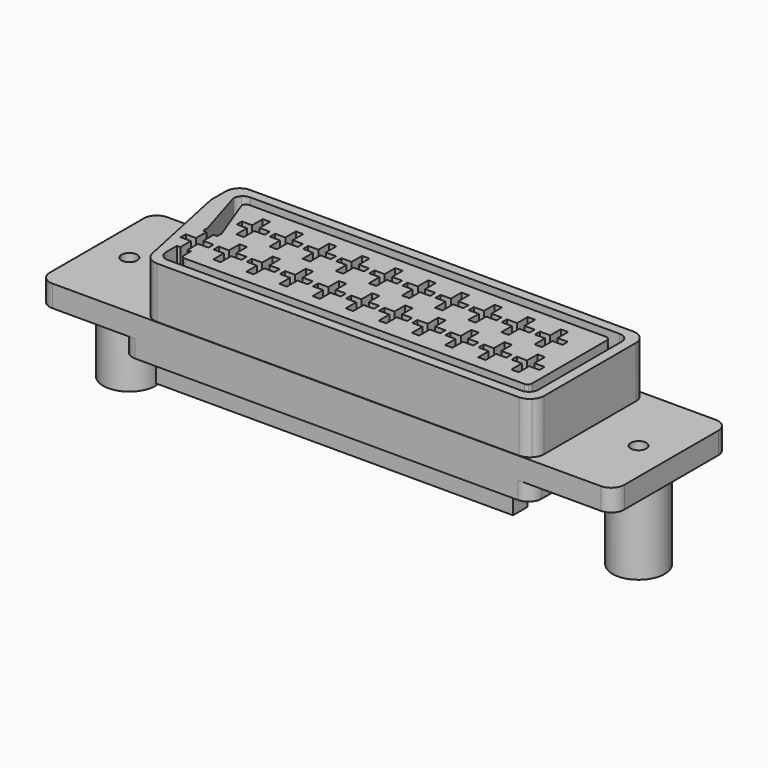
from build123d import *

# Parameters (mm, degrees)
BOX_W                  = 66
BOX_H                  = 16.5
BOX_DEPTH              = 2.5
BOX001_W               = 47
BOX001_H               = 16.5
BOX001_DEPTH           = 2
CYLINDER_R             = 3
CYLINDER_DEPTH         = 9.5
CYLINDER001_R          = 3
CYLINDER001_DEPTH      = 9.5
CYLINDER002_R          = 0.9
CYLINDER002_DEPTH      = 12
CYLINDER003_R          = 0.9
CYLINDER003_DEPTH      = 12
PAD_DEPTH              = 5.9
PAD001_DEPTH           = 5.9
BOX005_W               = 41
BOX005_H               = 14.2
BOX005_DEPTH           = 2.5
BOX006_W               = 41
BOX006_H               = 10
BOX006_DEPTH           = 2.5
FILLET_R               = 1.5
FILLET001_R            = 1
BOX015_W               = 2.9
BOX015_H               = 0.5
BOX015_DEPTH           = 12.9
LINEARPATTERN_COUNT    = 11
LINEARPATTERN_PITCH    = 3.8
BOX016_W               = 2.9
BOX016_H               = 0.5
BOX016_DEPTH           = 14.4
LINEARPATTERN001_COUNT = 10
LINEARPATTERN001_PITCH = 3.811111


with BuildPart() as part:
    # Box → Box (join)
    with BuildSketch(Plane(origin=(-33, -8.25, -2.5), x_dir=(1, 0, 0), z_dir=(0, 0, 1))):
        with Locations((33, 8.25)):
            Rectangle(BOX_W, BOX_H)
    extrude(amount=BOX_DEPTH)

    # Box001 → Box001 (join)
    with BuildSketch(Plane(origin=(-23.5, -8.25, -4.5), x_dir=(1, 0, 0), z_dir=(0, 0, 1))):
        with Locations((23.5, 8.25)):
            Rectangle(BOX001_W, BOX001_H)
    extrude(amount=BOX001_DEPTH)

    # Cylinder → Cylinder (join)
    with BuildSketch(Plane(origin=(-29.25, 0, -12), x_dir=(1, 0, 0), z_dir=(0, 0, 1))):
        Circle(CYLINDER_R)
    extrude(amount=CYLINDER_DEPTH)

    # Cylinder001 → Cylinder001 (join)
    with BuildSketch(Plane(origin=(29.25, 0, -12), x_dir=(1, 0, 0), z_dir=(0, 0, 1))):
        Circle(CYLINDER001_R)
    extrude(amount=CYLINDER001_DEPTH)

    # Cylinder002 → Cylinder002 (cut)
    with BuildSketch(Plane(origin=(-29.25, 0, -12), x_dir=(1, 0, 0), z_dir=(0, 0, 1))):
        Circle(CYLINDER002_R)
    extrude(amount=CYLINDER002_DEPTH, mode=Mode.SUBTRACT)

    # Cylinder003 → Cylinder003 (cut)
    with BuildSketch(Plane(origin=(29.25, 0, -12), x_dir=(1, 0, 0), z_dir=(0, 0, 1))):
        Circle(CYLINDER003_R)
    extrude(amount=CYLINDER003_DEPTH, mode=Mode.SUBTRACT)

    with BuildSketch(Plane(origin=(-33, 8.25, 0), x_dir=(1, 0, 0), z_dir=(0, 0, 1))):
        with BuildLine():
            Line((13.479586, -16.450182), (55.041756, -16.450182))
            ThreePointArc((55.041756, -16.450182), (55.66171, -16.327701), (56.188108, -15.978059))
            ThreePointArc((56.188108, -15.978059), (56.540317, -15.454065), (56.664303, -14.834995))
            Line((56.664303, -1.665005), (56.664303, -14.834995))
            ThreePointArc((56.664303, -1.665005), (56.194211, -0.532194), (55.060177, -0.065061))
            ThreePointArc((55.060177, -0.065061), (53.456051, -0.067805), (51.851922, -0.067661))
            ThreePointArc((51.851922, -0.067661), (46.837336, -0.060687), (41.822749, -0.056031))
            ThreePointArc((41.822749, -0.056031), (36.808159, -0.052729), (31.79357, -0.049817))
            ThreePointArc((31.79357, -0.049817), (26.555554, -0.05468), (21.317537, -0.056774))
            ThreePointArc((21.317537, -0.056774), (16.079532, -0.063149), (10.841552, -0.080853))
            ThreePointArc((10.841552, -0.080853), (10.320277, -0.273442), (9.896889, -0.633388))
            ThreePointArc((9.896889, -0.633388), (9.623966, -1.116883), (9.535548, -1.665005))
            Line((9.535548, -1.665005), (9.535548, -3.777173))
            Line((9.535548, -3.777173), (11.890879, -15.003742))
            Line((11.906298, -15.061702), (11.890879, -15.003742))
            Line((11.931925, -15.158032), (11.906298, -15.061702))
            ThreePointArc((11.931925, -15.158032), (12.123949, -15.665468), (12.475573, -16.078656))
            ThreePointArc((12.475573, -16.078656), (12.945725, -16.350503), (13.479586, -16.450182))
        make_face()
        with BuildLine():
            Line((13.125121, -12.663189), (13.125121, -11.147398))
            Line((11.951895, -11.147398), (13.125121, -11.147398))
            Line((11.951895, -11.147398), (11.951895, -10.401927))
            Line((11.951895, -10.401927), (13.125121, -10.401927))
            Line((13.125121, -10.401927), (13.125121, -8.886135))
            Line((12.730718, -8.886135), (13.125121, -8.886135))
            Line((12.730718, -8.886135), (12.730718, -8.25))
            Line((12.730718, -8.25), (10.914713, -2.286231))
            ThreePointArc((11.229931, -1.505624), (10.992087, -1.863528), (10.914713, -2.286231))
            ThreePointArc((12.013053, -1.192873), (11.589666, -1.269557), (11.229931, -1.505624))
            Line((12.013053, -1.192873), (54.417699, -1.192873))
            ThreePointArc((55.200843, -1.505647), (54.841092, -1.269583), (54.417699, -1.192873))
            ThreePointArc((55.516039, -2.286231), (55.438689, -1.863535), (55.200843, -1.505647))
            Line((55.516039, -2.286231), (55.516039, -14.213769))
            ThreePointArc((55.200821, -14.994375), (55.438665, -14.636472), (55.516039, -14.213769))
            ThreePointArc((54.417699, -15.307127), (54.841086, -15.230442), (55.200821, -14.994375))
            Line((13.829057, -15.307127), (54.417699, -15.307127))
            ThreePointArc((13.045914, -14.994354), (13.405664, -15.230418), (13.829057, -15.307127))
            ThreePointArc((12.730718, -14.213769), (12.808068, -14.636465), (13.045914, -14.994354))
            Line((12.730718, -14.213769), (12.730718, -12.663189))
            Line((13.125121, -12.663189), (12.730718, -12.663189))
        make_face(mode=Mode.SUBTRACT)
    extrude(amount=PAD_DEPTH)

    with BuildSketch(Plane(origin=(-33, 8.25, 0), x_dir=(1, 0, 0), z_dir=(0, 0, 1))):
        with BuildLine():
            Line((14.378227, -13.636369), (14.378227, -12.682166))
            Line((14.378227, -12.682166), (13.973838, -12.682166))
            Line((13.973838, -12.682166), (13.973838, -11.166375))
            Line((13.973838, -11.166375), (15.147065, -11.166375))
            Line((15.147065, -11.166375), (15.147065, -10.420904))
            Line((13.973838, -10.420904), (15.147065, -10.420904))
            Line((13.973838, -10.420904), (13.973838, -8.905112))
            Line((14.378227, -8.905112), (13.973838, -8.905112))
            Line((14.378227, -8.905112), (14.378227, -8.268976))
            Line((14.378227, -8.268976), (12.368765, -2.901584))
            ThreePointArc((12.515087, -2.54969), (12.406731, -2.711002), (12.368765, -2.901584))
            ThreePointArc((12.86801, -2.404603), (12.677152, -2.442125), (12.515087, -2.54969))
            Line((14.378227, -2.404603), (12.86801, -2.404603))
            Line((14.378227, -2.404603), (53.818605, -2.404604))
            ThreePointArc((54.171634, -2.549793), (54.009494, -2.442246), (53.818605, -2.404604))
            ThreePointArc((54.31785, -2.901584), (54.280007, -2.711032), (54.171634, -2.549793))
            Line((54.31785, -2.901584), (54.31785, -13.636369))
            ThreePointArc((54.171528, -13.988264), (54.279885, -13.826951), (54.31785, -13.636369))
            ThreePointArc((53.818605, -14.13335), (54.009464, -14.095828), (54.171528, -13.988264))
            Line((14.877472, -14.13335), (53.818605, -14.13335))
            ThreePointArc((14.524444, -13.98816), (14.686583, -14.095707), (14.877472, -14.13335))
            ThreePointArc((14.378227, -13.636369), (14.416071, -13.826922), (14.524444, -13.98816))
        make_face()
        Polygon((47.363363, -10.420904), (47.363363, -8.905112), (48.21208, -8.905112), (48.21208, -10.420904), (49.385306, -10.420904), (49.385306, -11.166375), (48.21208, -11.166375), (48.21208, -12.682166), (47.363363, -12.682166), (47.363363, -11.166375), (46.190136, -11.166375), (46.190136, -10.420904), align=None, mode=Mode.SUBTRACT)
        Polygon((15.506521, -7.573203), (15.506521, -6.057412), (14.333295, -6.057412), (14.333295, -5.311941), (15.506521, -5.311941), (15.506521, -3.79615), (16.355238, -3.79615), (16.355238, -5.311941), (17.528466, -5.311941), (17.528466, -6.057412), (16.355238, -6.057412), (16.355238, -7.573203), align=None, mode=Mode.SUBTRACT)
        Polygon((45.940514, -5.311941), (45.940514, -3.79615), (46.789231, -3.79615), (46.789231, -5.311941), (47.962457, -5.311941), (47.962457, -6.057412), (46.789231, -6.057412), (46.789231, -7.573203), (45.940514, -7.573203), (45.940514, -6.057412), (44.767287, -6.057412), (44.767287, -5.311941), align=None, mode=Mode.SUBTRACT)
        Polygon((21.582337, -10.420904), (21.582337, -8.905112), (20.73362, -8.905112), (20.73362, -10.420904), (19.560394, -10.420904), (19.560394, -11.166375), (20.73362, -11.166375), (20.73362, -12.682166), (21.582337, -12.682166), (21.582337, -11.166375), (22.755564, -11.166375), (22.755564, -10.420904), align=None, mode=Mode.SUBTRACT)
        Polygon((32.146367, -10.420904), (32.146367, -8.905112), (32.995084, -8.905112), (32.995084, -10.420904), (34.16831, -10.420904), (34.16831, -11.166375), (32.995084, -11.166375), (32.995084, -12.682166), (32.146367, -12.682166), (32.146367, -11.166375), (30.973141, -11.166375), (30.973141, -10.420904), align=None, mode=Mode.SUBTRACT)
        Polygon((38.581639, -11.166375), (38.581639, -10.420904), (39.754865, -10.420904), (39.754865, -8.905112), (40.603582, -8.905112), (40.603582, -10.420904), (41.776808, -10.420904), (41.776808, -11.166375), (40.603582, -11.166375), (40.603582, -12.682166), (39.754865, -12.682166), (39.754865, -11.166375), align=None, mode=Mode.SUBTRACT)
        Polygon((24.537869, -12.682166), (24.537869, -11.166375), (23.364643, -11.166375), (23.364643, -10.420904), (24.537869, -10.420904), (24.537869, -8.905112), (25.386586, -8.905112), (25.386586, -10.420904), (26.559813, -10.420904), (26.559813, -11.166375), (25.386586, -11.166375), (25.386586, -12.682166), align=None, mode=Mode.SUBTRACT)
        Polygon((34.77739, -11.166375), (34.77739, -10.420904), (35.950616, -10.420904), (35.950616, -8.905112), (36.799333, -8.905112), (36.799333, -10.420904), (37.972559, -10.420904), (37.972559, -11.166375), (36.799333, -11.166375), (36.799333, -12.682166), (35.950616, -12.682166), (35.950616, -11.166375), align=None, mode=Mode.SUBTRACT)
        Polygon((30.723518, -5.311941), (30.723518, -3.79615), (31.572235, -3.79615), (31.572235, -5.311941), (32.745461, -5.311941), (32.745461, -6.057412), (31.572235, -6.057412), (31.572235, -7.573203), (30.723518, -7.573203), (30.723518, -6.057412), (29.550292, -6.057412), (29.550292, -5.311941), align=None, mode=Mode.SUBTRACT)
        Polygon((28.342118, -12.682166), (29.190835, -12.682166), (29.190835, -11.166375), (30.364061, -11.166375), (30.364061, -10.420904), (29.190835, -10.420904), (29.190835, -8.905112), (28.342118, -8.905112), (28.342118, -10.420904), (27.168892, -10.420904), (27.168892, -11.166375), (28.342118, -11.166375), align=None, mode=Mode.SUBTRACT)
        Polygon((23.11502, -7.573203), (23.963737, -7.573203), (23.963737, -6.057412), (25.136964, -6.057412), (25.136964, -5.311941), (23.963737, -5.311941), (23.963737, -3.79615), (23.11502, -3.79615), (23.11502, -5.311941), (21.941794, -5.311941), (21.941794, -6.057412), (23.11502, -6.057412), align=None, mode=Mode.SUBTRACT)
        Polygon((42.984982, -7.573203), (42.984982, -6.057412), (44.158208, -6.057412), (44.158208, -5.311941), (42.984982, -5.311941), (42.984982, -3.79615), (42.136265, -3.79615), (42.136265, -5.311941), (40.963038, -5.311941), (40.963038, -6.057412), (42.136265, -6.057412), (42.136265, -7.573203), align=None, mode=Mode.SUBTRACT)
        Polygon((18.137545, -6.057412), (18.137545, -5.311941), (19.310771, -5.311941), (19.310771, -3.79615), (20.159488, -3.79615), (20.159488, -5.311941), (21.332715, -5.311941), (21.332715, -6.057412), (20.159488, -6.057412), (20.159488, -7.573203), (19.310771, -7.573203), (19.310771, -6.057412), align=None, mode=Mode.SUBTRACT)
        Polygon((49.994386, -10.420904), (51.167613, -10.420904), (51.167613, -8.905112), (52.01633, -8.905112), (52.01633, -10.420904), (53.189556, -10.420904), (53.189556, -11.166375), (52.01633, -11.166375), (52.01633, -12.682166), (51.167613, -12.682166), (51.167613, -11.166375), (49.994386, -11.166375), align=None, mode=Mode.SUBTRACT)
        Polygon((42.385888, -11.166375), (42.385888, -10.420904), (43.559114, -10.420904), (43.559114, -8.905112), (44.407831, -8.905112), (44.407831, -10.420904), (45.581057, -10.420904), (45.581057, -11.166375), (44.407831, -11.166375), (44.407831, -12.682166), (43.559114, -12.682166), (43.559114, -11.166375), align=None, mode=Mode.SUBTRACT)
        Polygon((25.746043, -5.311941), (26.919269, -5.311941), (26.919269, -3.79615), (27.767986, -3.79615), (27.767986, -5.311941), (28.941212, -5.311941), (28.941212, -6.057412), (27.767986, -6.057412), (27.767986, -7.573203), (26.919269, -7.573203), (26.919269, -6.057412), (25.746043, -6.057412), align=None, mode=Mode.SUBTRACT)
        Polygon((17.778088, -12.682166), (17.778088, -11.166375), (18.951315, -11.166375), (18.951315, -10.420904), (17.778088, -10.420904), (17.778088, -8.905112), (16.929371, -8.905112), (16.929371, -10.420904), (15.756144, -10.420904), (15.756144, -11.166375), (16.929371, -11.166375), (16.929371, -12.682166), align=None, mode=Mode.SUBTRACT)
        Polygon((37.15879, -6.057412), (38.332016, -6.057412), (38.332016, -7.573203), (39.180733, -7.573203), (39.180733, -6.057412), (40.353959, -6.057412), (40.353959, -5.311941), (39.180733, -5.311941), (39.180733, -3.79615), (38.332016, -3.79615), (38.332016, -5.311941), (37.15879, -5.311941), align=None, mode=Mode.SUBTRACT)
        Polygon((49.744764, -5.311941), (49.744764, -3.79615), (50.593481, -3.79615), (50.593481, -5.311941), (51.766707, -5.311941), (51.766707, -6.057412), (50.593481, -6.057412), (50.593481, -7.573203), (49.744764, -7.573203), (49.744764, -6.057412), (48.571536, -6.057412), (48.571536, -5.311941), align=None, mode=Mode.SUBTRACT)
        Polygon((35.376484, -5.311941), (35.376484, -3.79615), (34.527767, -3.79615), (34.527767, -5.311941), (33.354541, -5.311941), (33.354541, -6.057412), (34.527767, -6.057412), (34.527767, -7.573203), (35.376484, -7.573203), (35.376484, -6.057412), (36.54971, -6.057412), (36.54971, -5.311941), align=None, mode=Mode.SUBTRACT)
    extrude(amount=PAD001_DEPTH)

    # Box005 → Box005 (join)
    with BuildSketch(Plane(origin=(-20.5, -7.1, -7), x_dir=(1, 0, 0), z_dir=(0, 0, 1))):
        with Locations((20.5, 7.1)):
            Rectangle(BOX005_W, BOX005_H)
    extrude(amount=BOX005_DEPTH)

    # Box006 → Box006 (cut)
    with BuildSketch(Plane(origin=(-20.5, -5, -7), x_dir=(1, 0, 0), z_dir=(0, 0, 1))):
        with Locations((20.5, 5)):
            Rectangle(BOX006_W, BOX006_H)
    extrude(amount=BOX006_DEPTH, mode=Mode.SUBTRACT)

    # Fillet
    fillet_edges = [part.edges().sort_by_distance(p)[0] for p in [
        (33, -8.25, -1.25),
        (33, 8.25, -1.25),
        (23.5, 8.25, -3.5),
        (-23.5, 8.25, -3.5),
        (-33, 8.25, -1.25),
        (23.5, -8.25, -3.5),
        (-23.5, -8.25, -3.5),
        (-33, -8.25, -1.25),
    ]]
    fillet(fillet_edges, radius=FILLET_R)

    # Fillet001
    fillet001_edges = [part.edges().sort_by_distance(p)[0] for p in [
        (-23.464452, 4.472827, 2.95),
    ]]
    fillet(fillet001_edges, radius=FILLET001_R)

    # Box015 → Box015 (cut)
    with BuildSketch(Plane(origin=(-20.9, -2.8, -7), x_dir=(1, 0, 0), z_dir=(0, 0, 1))):
        with Locations((1.45, 0.25)):
            Rectangle(BOX015_W, BOX015_H)
    box015 = extrude(amount=BOX015_DEPTH, mode=Mode.SUBTRACT)

    # LinearPattern: Box015 ×11
    with Locations(*[(i * LINEARPATTERN_PITCH, 0, 0) for i in range(1, LINEARPATTERN_COUNT)]):
        add(box015, mode=Mode.SUBTRACT)

    # Box016 → Box016 (cut)
    with BuildSketch(Plane(origin=(-18.52, 2.3, -8), x_dir=(1, 0, 0), z_dir=(0, 0, 1))):
        with Locations((1.45, 0.25)):
            Rectangle(BOX016_W, BOX016_H)
    box016 = extrude(amount=BOX016_DEPTH, mode=Mode.SUBTRACT)

    # LinearPattern001: Box016 ×10
    with Locations(*[(i * LINEARPATTERN001_PITCH, 0, 0) for i in range(1, LINEARPATTERN001_COUNT)]):
        add(box016, mode=Mode.SUBTRACT)


with BuildPart() as part_1:
    # Body placement: moved
    add(part.part.moved(Location((0, 0, 7))))


solid = part_1.part
